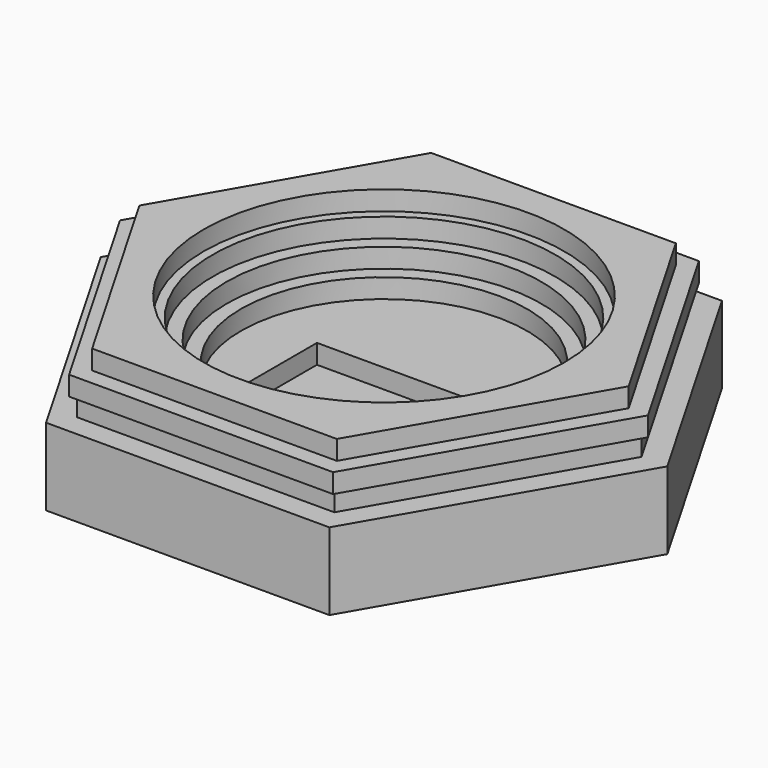
from build123d import *

# Parameters (mm, degrees)
PAD_DEPTH    = 9
SKETCH001_W  = 26.1
SKETCH001_H  = 34.4
POCKET_DEPTH = 3
SKETCH002_R  = 22.22
PAD001_DEPTH = 3
SKETCH003_R  = 24.44
PAD002_DEPTH = 3
SKETCH004_R  = 26.6
PAD003_DEPTH = 3
SKETCH005_R  = 28
PAD004_DEPTH = 3


with BuildPart() as part:
    # Sketch → Pad (new body)
    with BuildSketch(Plane.XY):
        Polygon((44, 0), (22, 38.105118), (-22, 38.105118), (-44, 0), (-22, -38.105118), (22, -38.105118), align=None)
    extrude(amount=PAD_DEPTH)

    # Sketch001 (on Face8 of Pad) → Pocket (cut)
    with BuildSketch(Plane.XY.offset(9)):
        with Locations((0, -13.905118)):
            Rectangle(SKETCH001_W, SKETCH001_H)
    extrude(amount=-POCKET_DEPTH, mode=Mode.SUBTRACT)

    # Sketch002 (on Face5 of Pocket) → Pad001 (join)
    with BuildSketch(Plane.XY.offset(9)):
        Polygon((22, 38.105118), (-22, 38.105118), (-44, 0), (-22, -38.105118), (22, -38.105118), (44, 0), align=None)
        Circle(SKETCH002_R, mode=Mode.SUBTRACT)
    extrude(amount=PAD001_DEPTH)

    # Sketch003 (on Face14 of Pad001) → Pad002 (join)
    with BuildSketch(Plane.XY.offset(12)):
        Polygon((40, 0), (20, 34.641016), (-20, 34.641016), (-40, 0), (-20, -34.641016), (20, -34.641016), align=None)
        Circle(SKETCH003_R, mode=Mode.SUBTRACT)
    extrude(amount=PAD002_DEPTH)

    # Sketch004 (on Face21 of Pad002) → Pad003 (join)
    with BuildSketch(Plane.XY.offset(15)):
        Polygon((41, 0), (20.5, 35.507042), (-20.5, 35.507042), (-41, 0), (-20.5, -35.507042), (20.5, -35.507042), align=None)
        Circle(SKETCH004_R, mode=Mode.SUBTRACT)
    extrude(amount=PAD003_DEPTH)

    # Sketch005 (on Face28 of Pad003) → Pad004 (join)
    with BuildSketch(Plane.XY.offset(18)):
        Polygon((19, 32.908965), (-19, 32.908965), (-38, 0), (-19, -32.908965), (19, -32.908965), (38, 0), align=None)
        Circle(SKETCH005_R, mode=Mode.SUBTRACT)
    extrude(amount=PAD004_DEPTH)


solid = part.part
